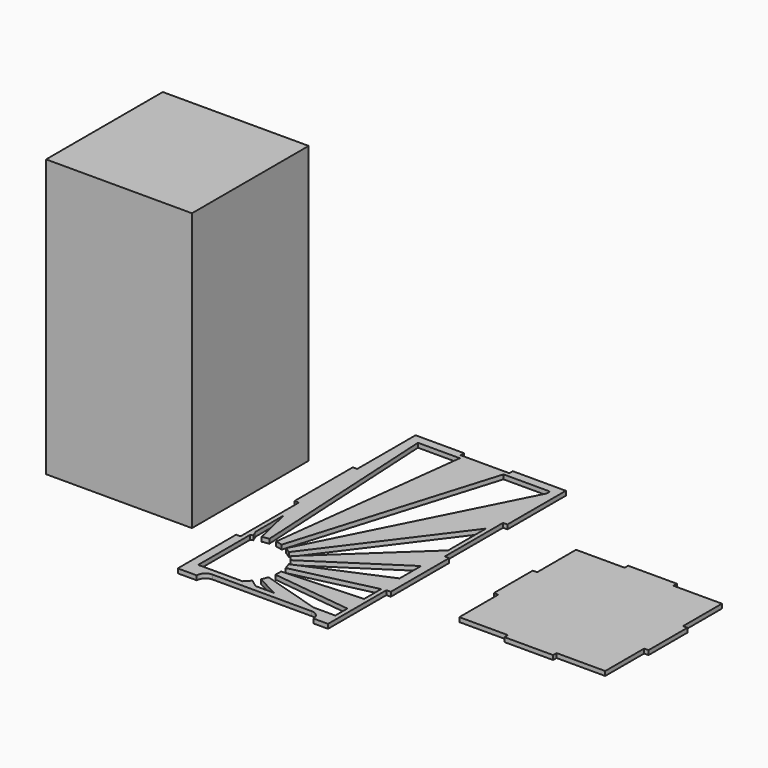
from build123d import *

# Parameters (mm, degrees)
F1_DEPTH = 3
F2_W     = 100
F2_H     = 100
F3_DEPTH = 190


with BuildPart() as f1:
    # F0 (on Top) → F1 (new body)
    with BuildSketch(Plane.XY):
        with BuildLine():
            Line((-16.666667, 100), (-50, 100))
            Line((-50, 100), (-50, 50))
            Line((-50, 50), (-53, 50))
            Line((-53, 50), (-53, 0))
            Line((-53, 0), (-50, 0))
            Line((-50, 0), (-50, -50))
            Line((-50, -50), (-53, -50))
            Line((-53, -50), (-53, -100))
            Line((-53, -100), (-50, -100))
            Line((-50, -100), (-40, -100))
            ThreePointArc((-40, -100), (-38.242641, -95.757359), (-34, -94))
            Line((-34, -94), (34, -94))
            ThreePointArc((34, -94), (38.242641, -95.757359), (40, -100))
            Line((40, -100), (50, -100))
            Line((50, -100), (50, -50))
            Line((50, -50), (53, -50))
            Line((53, -50), (53, 0))
            Line((53, 0), (50, 0))
            Line((50, 0), (50, 50))
            Line((50, 50), (53, 50))
            Line((53, 50), (53, 100))
            Line((53, 100), (50, 100))
            Line((50, 100), (16.666667, 100))
            Line((16.666667, 100), (16.666667, 97))
            Line((16.666667, 97), (-16.666667, 97))
            Line((-16.666667, 97), (-16.666667, 100))
        make_face()
        Polygon((-47, -90), (-47, -45.621491), (-47, -40.825353), (-47, -16.73068), (-47, 94), (-43.549871, 94), (-14.861034, 94), (15.07639, 94), (47, 94), (47, 91.238711), (47, 39.010934), (47, 6.656318), (47, -16.529716), (47, -34.93287), (47, -50.759957), (47, -65.338158), (47, -79.639418), (47, -90), (31.968861, -90), (5.238734, -90), (-7.697305, -90), (-16.550338, -90), align=None, mode=Mode.SUBTRACT)
        Polygon((133.333333, 50), (100, 50), (100, 16.666667), (97, 16.666667), (97, -16.666667), (100, -16.666667), (100, -50), (133.333333, -50), (133.333333, -53), (166.666667, -53), (166.666667, -50), (200, -50), (200, -16.666667), (203, -16.666667), (203, 16.666667), (200, 16.666667), (200, 50), (166.666667, 50), (166.666667, 53), (133.333333, 53), align=None)
        with BuildLine():
            Line((-10.441975, -82.049185), (5.238734, -90))
            Line((5.238734, -90), (31.968861, -90))
            Line((31.968861, -90), (-8.678824, -77.660339))
            ThreePointArc((-8.678824, -77.660339), (-9.464589, -79.893253), (-10.441975, -82.049185))
        make_face()
        with BuildLine():
            Line((-7.704574, -73.032001), (47, -79.639418))
            Line((47, -79.639418), (47, -65.338158))
            Line((47, -65.338158), (-7.548828, -68.304802))
            ThreePointArc((-7.548828, -68.304802), (-7.523504, -70.671801), (-7.704574, -73.032001))
        make_face()
        with BuildLine():
            Line((-8.216318, -63.622374), (47, -50.759957))
            Line((47, -50.759957), (47, -34.93287))
            Line((47, -34.93287), (-9.686762, -59.126991))
            ThreePointArc((-9.686762, -59.126991), (-8.853404, -61.342582), (-8.216318, -63.622374))
        make_face()
        with BuildLine():
            Line((47, -16.529716), (47, 6.656318))
            Line((47, 6.656318), (-14.834759, -51.233886))
            ThreePointArc((-14.834759, -51.233886), (-13.293881, -53.030835), (-11.915482, -54.955243))
            Line((-11.915482, -54.955243), (47, -16.529716))
        make_face()
        with BuildLine():
            Line((47, 39.010934), (47, 91.238711))
            Line((47, 91.238711), (-22.371894, -45.577512))
            ThreePointArc((-22.371894, -45.577512), (-20.30935, -46.739081), (-18.355892, -48.075992))
            Line((-18.355892, -48.075992), (47, 39.010934))
        make_face()
        with BuildLine():
            Line((15.07639, 94), (-14.861034, 94))
            Line((-14.861034, 94), (-31.389078, -42.840112))
            ThreePointArc((-31.389078, -42.840112), (-29.053641, -43.226198), (-26.76074, -43.814361))
            Line((-26.76074, -43.814361), (15.07639, 94))
        make_face()
        with BuildLine():
            Line((-47, 94), (-47, -16.73068))
            Line((-47, -16.73068), (-40.798706, -43.351855))
            ThreePointArc((-40.798706, -43.351855), (-38.472063, -42.915891), (-36.116278, -42.684366))
            Line((-36.116278, -42.684366), (-43.549871, 94))
            Line((-43.549871, 94), (-47, 94))
        make_face()
        with BuildLine():
            Line((-47, -40.825353), (-47, -45.621491))
            ThreePointArc((-47, -45.621491), (-46.153982, -45.207086), (-45.294088, -44.822299))
            Line((-45.294088, -44.822299), (-47, -40.825353))
        make_face()
        with BuildLine():
            ThreePointArc((-12.940455, -86.065187), (-14.648367, -88.121611), (-16.550338, -90))
            Line((-16.550338, -90), (-7.697305, -90))
            Line((-7.697305, -90), (-12.940455, -86.065187))
        make_face()
    extrude(amount=F1_DEPTH)


with BuildPart() as f3:
    # F2 (on Top) → F3 (new body)
    with BuildSketch(Plane.XY):
        with Locations((-129.788876, -4.331257)):
            Rectangle(F2_W, F2_H)
    extrude(amount=F3_DEPTH)


solid = Compound([f1.part, f3.part])
